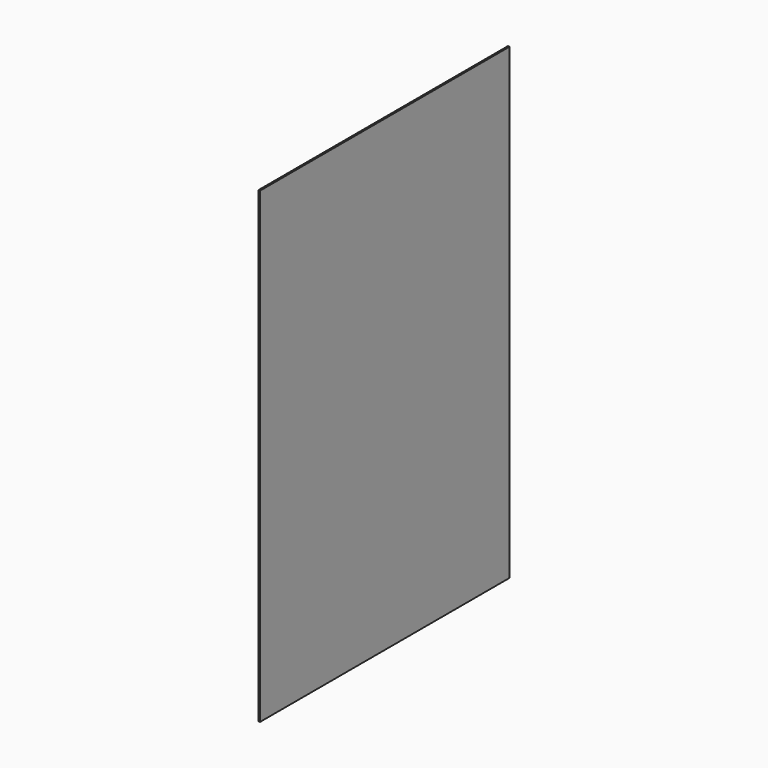
from build123d import *

# Parameters (mm, degrees)
SKETCH_W  = 609.6
SKETCH_H  = 914.4
PAD_DEPTH = 3.175


with BuildPart() as part:
    # Sketch → Pad (new body)
    with BuildSketch(Plane.YZ):
        Rectangle(SKETCH_W, SKETCH_H)
    extrude(amount=PAD_DEPTH)


solid = part.part
